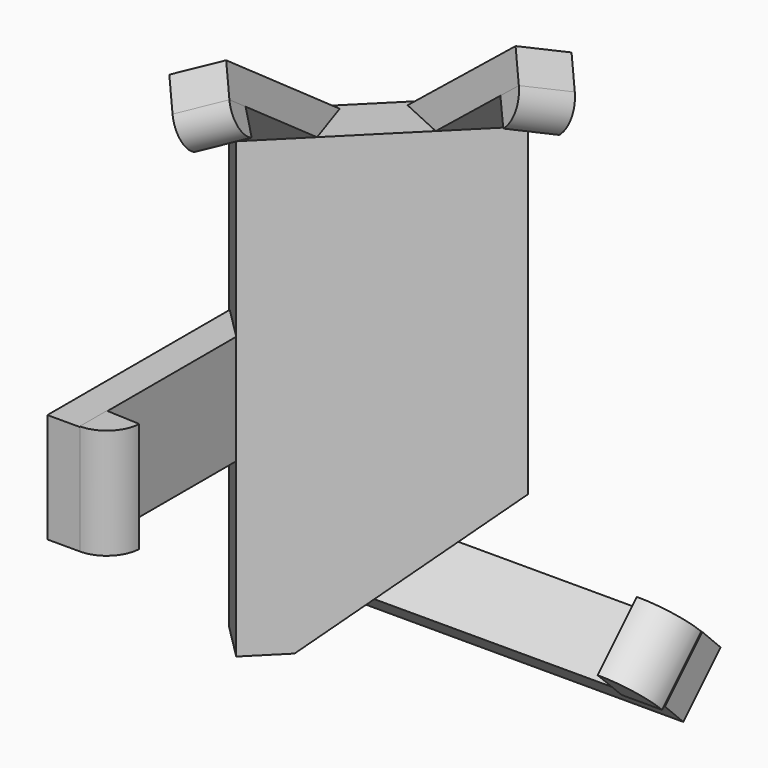
from build123d import *

# Parameters (mm, degrees)
F0_W      = 50
F0_H      = 50
F1_DEPTH  = 80
F2_SIZE2  = 23.8350718519
F2_SIZE   = 20
F3_SIZE   = 25
F4_SIZE   = 10
F5_SIZE   = 20
F9_DEPTH  = 8
F13_W     = 35.8339243103
F13_H     = 16.9060602784
F14_DEPTH = 5
F17_W     = 53.6813121289
F17_H     = 10.183953287
F18_DEPTH = 5
F20_DEPTH = 17
F22_DEPTH = 17.6786695297
F24_DEPTH = 10.7
F25_W     = 8
F25_H     = 28.9447009563
F26_DEPTH = 5
F28_DEPTH = 8
F30_DEPTH = 8
F32_W     = 53.8588166237
F32_H     = 78.8521182258
F33_DEPTH = 25


with BuildPart() as f1:
    # F0 (on Top) → F1 (new body)
    with BuildSketch(Plane.XY):
        Rectangle(F0_W, F0_H)
    extrude(amount=F1_DEPTH)

    # F2
    f2_edges = [f1.edges().sort_by_distance(p)[0] for p in [
        (25, -25, 40),
        (25, 0, 80),
        (0, -25, 80),
    ]]
    chamfer(f2_edges, length=F2_SIZE, length2=F2_SIZE2)

    # F3
    f3_edges = [f1.edges().sort_by_distance(p)[0] for p in [
        (-25, 25, 40),
    ]]
    chamfer(f3_edges, length=F3_SIZE)

    # F4
    f4_edges = [f1.edges().sort_by_distance(p)[0] for p in [
        (-12.5, 12.5, 80),
    ]]
    chamfer(f4_edges, length=F4_SIZE)

    # F5
    f5_edges = [f1.edges().sort_by_distance(p)[0] for p in [
        (12.5, 25, 0),
        (-10, -25, 0),
    ]]
    chamfer(f5_edges, length=F5_SIZE)


with BuildPart() as f9:
    # F8 (on offset) → F9 (new body)
    with BuildSketch(Plane(origin=(-12.5, 12.5, 0), x_dir=(-0.7071067812, -0.7071067812, 0), z_dir=(-0.7071067812, 0.7071067812, 0))):
        Polygon((17.6776695297, 0), (17.6776695297, 70), (-17.6776695297, 70), (-17.6776695297, 20), (10.6066017178, 0), align=None)
    extrude(amount=F9_DEPTH)


with BuildPart() as f14:
    # F13 (on offset) → F14 (new body)
    with BuildSketch(Plane(origin=(-25, 0, 0), x_dir=(0, -1, 0), z_dir=(-1, 0, 0))):
        with Locations((12.2601079056, 35)):
            Rectangle(F13_W, F13_H)
    extrude(amount=F14_DEPTH)


with BuildPart() as f18:
    # F17 (on face) → F18 (new body)
    with BuildSketch(Plane(origin=(0, 2.5, -2.5), x_dir=(-1, 0, 0), z_dir=(0, 0.7071067812, -0.7071067812))):
        with Locations((-4.8447521403, 18.300923788)):
            Rectangle(F17_W, F17_H)
    extrude(amount=F18_DEPTH)

    # F21 (on face) → F22 (cut, through all)
    with BuildSketch(Plane(origin=(-18.1568542495, 18.1568542495, 0), x_dir=(-0.7071067812, -0.7071067812, 0), z_dir=(-0.7071067812, 0.7071067812, 0))):
        Polygon((-6.8858577405, 12.3690367026), (6.4172865124, 2.9622931903), (4.3216864578, 20), align=None)
    extrude(amount=F22_DEPTH, mode=Mode.SUBTRACT)


with BuildPart() as f20:
    # F19 (on face) → F20 (new body)
    with BuildSketch(Plane(origin=(0, 0, 26.5469698608), x_dir=(1, 0, 0), z_dir=(0, 0, -1))):
        with BuildLine():
            Line((-25, 24.9648671597), (-19.794074714, 25.2206033486))
            ThreePointArc((-19.794074714, 25.2206033486), (-21.4059695204, 28.7397849064), (-25, 30.1770700608))
            Line((-25, 30.1770700608), (-25, 24.9648671597))
        make_face()
    extrude(amount=-F20_DEPTH)


with BuildPart() as f24:
    # F23 (on face) → F24 (new body)
    with BuildSketch(Plane(origin=(0, 16.5412785267, 16.5412785267), x_dir=(1, 0, 0), z_dir=(0, 0.7071067812, 0.7071067812))):
        with BuildLine():
            Line((25.3005823628, 3.5255805781), (25.1206550747, -2.7054911479))
            ThreePointArc((25.1206550747, -2.7054911479), (29.6479403457, -0.9419810894), (31.5342433751, 3.5355339059))
            Line((31.5342433751, 3.5355339059), (25.3005823628, 3.5255805781))
        make_face()
    extrude(amount=-F24_DEPTH)


with BuildPart() as f26:
    # F25 (on face) → F26 (new body)
    with BuildSketch(Plane(origin=(-30.9987373415, 30.9987373415, 43.8388347648), x_dir=(0.8660254038, 0.2886751346, 0.4082482905), z_dir=(-0.5, 0.5, 0.7071067812))):
        with Locations((10.9267452379, -40.9913770854)):
            Rectangle(F25_W, F25_H)
    extrude(amount=F26_DEPTH)

    # F29 (on face) → F30 (join)
    with BuildSketch(Plane(origin=(12.9269405718, 4.3089801906, 6.0938182255), x_dir=(-0.2611164839, 0.9574271078, -0.123091491), z_dir=(0.8660254038, 0.2886751346, 0.4082482905))):
        with BuildLine():
            Line((-11.6683227199, 79.8438422851), (-14.9225005893, 81.8366111132))
            ThreePointArc((-14.9225005893, 81.8366111132), (-15.2492461331, 78.5255901405), (-12.8536503762, 76.2167498469))
            Line((-12.8536503762, 76.2167498469), (-11.6683227199, 79.8438422851))
        make_face()
    extrude(amount=-F30_DEPTH)


with BuildPart() as f26b:
    # F25 (on face) → F26, piece 2 (new body)
    with BuildSketch(Plane(origin=(-30.9987373415, 30.9987373415, 43.8388347648), x_dir=(0.8660254038, 0.2886751346, 0.4082482905), z_dir=(-0.5, 0.5, 0.7071067812))):
        Polygon((22.2276340141, -15.2055781644), (18.600326423, -22.3359806523), (43.4397284504, -34.972034744), (47.0670360415, -27.8416322561), align=None)
    extrude(amount=F26_DEPTH)


with BuildPart() as f28:
    # F27 (on face) → F28 (new body)
    with BuildSketch(Plane(origin=(-1.3642953196, -2.9832582966, 1.1447796995), x_dir=(-0.9196804789, 0.366602615, -0.1406781411), z_dir=(0.3926675652, 0.8586328449, -0.3294872091))):
        with BuildLine():
            Line((-8.5912431992, 79.4330683637), (-12.0985571904, 81.7049722909))
            ThreePointArc((-12.0985571904, 81.7049722909), (-12.6827022712, 78.5829145248), (-10.9031619504, 75.952000916))
            Line((-10.9031619504, 75.952000916), (-8.5912431992, 79.4330683637))
        make_face()
    extrude(amount=-F28_DEPTH)


with BuildPart() as f33_tool:
    # F32 (on face) → F33 (new body)
    with BuildSketch(Plane(origin=(-18.1568542495, 18.1568542495, 0), x_dir=(-0.7071067812, -0.7071067812, 0), z_dir=(-0.7071067812, 0.7071067812, 0))):
        with Locations((-1.6720835119, 35.6160321971)):
            Rectangle(F32_W, F32_H)
    extrude(amount=F33_DEPTH)


with BuildPart() as f18_1:
    add(f18.part)

    # F33: cut by f33_tool
    add(f33_tool.part, mode=Mode.SUBTRACT)


with BuildPart() as f26_1:
    add(f26.part)

    # F33: cut by f33_tool
    add(f33_tool.part, mode=Mode.SUBTRACT)


with BuildPart() as f26b_1:
    add(f26b.part)

    # F33: cut by f33_tool
    add(f33_tool.part, mode=Mode.SUBTRACT)


solid = Compound([f9.part, f14.part, f20.part, f24.part, f28.part, f18_1.part, f26_1.part, f26b_1.part])
